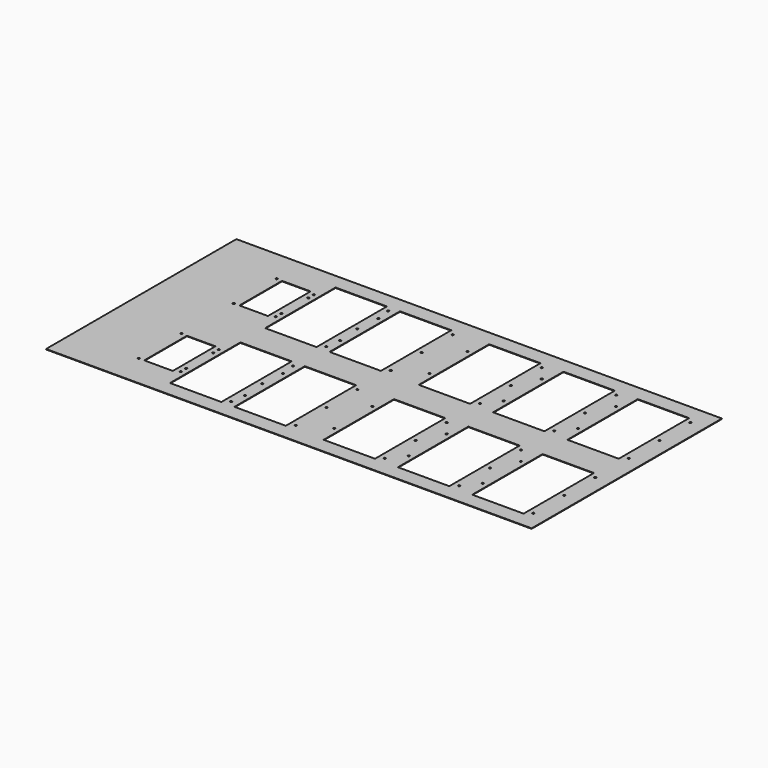
from build123d import *

# Parameters (mm, degrees)
SKETCH_W        = 980
SKETCH_H        = 480
PAD_DEPTH       = 1
SKETCH077_R     = 1.9
SKETCH077_W     = 103.6
SKETCH077_H     = 177.6
POCKET018_DEPTH = 1
SKETCH095_R     = 1.9
SKETCH095_W     = 103.6
SKETCH095_H     = 177.6
POCKET023_DEPTH = 1
SKETCH113_R     = 1.9
SKETCH113_W     = 103.6
SKETCH113_H     = 177.6
POCKET028_DEPTH = 1
SKETCH131_R     = 1.9
SKETCH131_W     = 103.6
SKETCH131_H     = 177.6
POCKET033_DEPTH = 1
SKETCH149_R     = 1.9
SKETCH149_W     = 103.6
SKETCH149_H     = 177.6
POCKET038_DEPTH = 1
SKETCH198_R     = 1.9
SKETCH198_W     = 57.6
SKETCH198_H     = 107.6
POCKET056_DEPTH = 1
SKETCH216_R     = 1.9
SKETCH216_W     = 103.6
SKETCH216_H     = 177.6
POCKET061_DEPTH = 1
SKETCH234_R     = 1.9
SKETCH234_W     = 103.6
SKETCH234_H     = 177.6
POCKET066_DEPTH = 1
SKETCH252_R     = 1.9
SKETCH252_W     = 103.6
SKETCH252_H     = 177.6
POCKET071_DEPTH = 1
SKETCH270_R     = 1.9
SKETCH270_W     = 103.6
SKETCH270_H     = 177.6
POCKET076_DEPTH = 1
SKETCH288_R     = 1.9
SKETCH288_W     = 103.6
SKETCH288_H     = 177.6
POCKET081_DEPTH = 1
SKETCH303_R     = 1.9
SKETCH303_W     = 57.6
SKETCH303_H     = 107.6
POCKET085_DEPTH = 1


with BuildPart() as part:
    # Sketch → Pad (new body)
    with BuildSketch(Plane.XY):
        Rectangle(SKETCH_W, SKETCH_H)
    extrude(amount=PAD_DEPTH)

    # Sketch077 (on Face5 of Pad) → Pocket018 (cut)
    with BuildSketch(Plane(origin=(0, 0, 0), x_dir=(1, 0, 0), z_dir=(0, 0, -1))):
        with Locations((459.999969, -41.999985)):
            Circle(SKETCH077_R)
        with Locations((459.999969, -119.999985)):
            Circle(SKETCH077_R)
        with Locations((459.999969, -197.999985)):
            Circle(SKETCH077_R)
        with Locations((333.999969, -167.999985)):
            Circle(SKETCH077_R)
        with Locations((333.999969, -71.999985)):
            Circle(SKETCH077_R)
        with Locations((396.999969, -119.999985)):
            Rectangle(SKETCH077_W, SKETCH077_H)
    extrude(amount=-POCKET018_DEPTH, mode=Mode.SUBTRACT)

    # Sketch095 (on Face4 of Pocket018) → Pocket023 (cut)
    with BuildSketch(Plane(origin=(0, 0, 0), x_dir=(1, 0, 0), z_dir=(0, 0, -1))):
        with Locations((309.999924, -42.000008)):
            Circle(SKETCH095_R)
        with Locations((309.999924, -120.000008)):
            Circle(SKETCH095_R)
        with Locations((183.999924, -72.000008)):
            Circle(SKETCH095_R)
        with Locations((309.999924, -198.000008)):
            Circle(SKETCH095_R)
        with Locations((183.999924, -168.000008)):
            Circle(SKETCH095_R)
        with Locations((246.999924, -120.000008)):
            Rectangle(SKETCH095_W, SKETCH095_H)
    extrude(amount=-POCKET023_DEPTH, mode=Mode.SUBTRACT)

    # Sketch113 (on Face4 of Pocket023) → Pocket028 (cut)
    with BuildSketch(Plane(origin=(0, 0, 0), x_dir=(1, 0, 0), z_dir=(0, 0, -1))):
        with Locations((159.999886, -120.000023)):
            Circle(SKETCH113_R)
        with Locations((159.999886, -42.000023)):
            Circle(SKETCH113_R)
        with Locations((159.999886, -198.000023)):
            Circle(SKETCH113_R)
        with Locations((33.999886, -168.000023)):
            Circle(SKETCH113_R)
        with Locations((33.999886, -72.000023)):
            Circle(SKETCH113_R)
        with Locations((96.999886, -120.000023)):
            Rectangle(SKETCH113_W, SKETCH113_H)
    extrude(amount=-POCKET028_DEPTH, mode=Mode.SUBTRACT)

    # Sketch131 (on Face4 of Pocket028) → Pocket033 (cut)
    with BuildSketch(Plane(origin=(0, 0, 0), x_dir=(1, 0, 0), z_dir=(0, 0, -1))):
        with Locations((-20.000153, -42.000076)):
            Circle(SKETCH131_R)
        with Locations((-20.000153, -120.000076)):
            Circle(SKETCH131_R)
        with Locations((-20.000153, -198.000076)):
            Circle(SKETCH131_R)
        with Locations((-146.000153, -168.000076)):
            Circle(SKETCH131_R)
        with Locations((-146.000153, -72.000076)):
            Circle(SKETCH131_R)
        with Locations((-83.000153, -120.000076)):
            Rectangle(SKETCH131_W, SKETCH131_H)
    extrude(amount=-POCKET033_DEPTH, mode=Mode.SUBTRACT)

    # Sketch149 (on Face4 of Pocket033) → Pocket038 (cut)
    with BuildSketch(Plane(origin=(0, 0, 0), x_dir=(1, 0, 0), z_dir=(0, 0, -1))):
        with Locations((-150.000107, -42.000069)):
            Circle(SKETCH149_R)
        with Locations((-150.000107, -120.000069)):
            Circle(SKETCH149_R)
        with Locations((-150.000107, -198.000069)):
            Circle(SKETCH149_R)
        with Locations((-276.000107, -168.000069)):
            Circle(SKETCH149_R)
        with Locations((-276.000107, -72.000069)):
            Circle(SKETCH149_R)
        with Locations((-213.000107, -120.000069)):
            Rectangle(SKETCH149_W, SKETCH149_H)
    extrude(amount=-POCKET038_DEPTH, mode=Mode.SUBTRACT)

    # Sketch198 (on Face5 of Pad) → Pocket056 (cut)
    with BuildSketch(Plane(origin=(0, 0, 0), x_dir=(1, 0, 0), z_dir=(0, 0, -1))):
        with Locations((-276.000183, -86.000107)):
            Circle(SKETCH198_R)
        with Locations((-276.000183, -154.000107)):
            Circle(SKETCH198_R)
        with Locations((-356.000183, -66.000107)):
            Circle(SKETCH198_R)
        with Locations((-356.000183, -174.000107)):
            Circle(SKETCH198_R)
        with Locations((-316.000183, -120.000107)):
            Rectangle(SKETCH198_W, SKETCH198_H)
    extrude(amount=-POCKET056_DEPTH, mode=Mode.SUBTRACT)

    # Sketch216 (on Face5 of Pad) → Pocket061 (cut)
    with BuildSketch(Plane(origin=(0, 0, 0), x_dir=(1, 0, 0), z_dir=(0, 0, -1))):
        with Locations((459.999878, 42.000061)):
            Circle(SKETCH216_R)
        with Locations((333.999878, 72.000061)):
            Circle(SKETCH216_R)
        with Locations((333.999878, 168.000061)):
            Circle(SKETCH216_R)
        with Locations((459.999878, 198.000061)):
            Circle(SKETCH216_R)
        with Locations((459.999878, 120.000061)):
            Circle(SKETCH216_R)
        with Locations((396.999878, 120.000061)):
            Rectangle(SKETCH216_W, SKETCH216_H)
    extrude(amount=-POCKET061_DEPTH, mode=Mode.SUBTRACT)

    # Sketch234 (on Face4 of Pocket061) → Pocket066 (cut)
    with BuildSketch(Plane(origin=(0, 0, 0), x_dir=(1, 0, 0), z_dir=(0, 0, -1))):
        with Locations((309.999893, 198.000046)):
            Circle(SKETCH234_R)
        with Locations((183.999893, 168.000046)):
            Circle(SKETCH234_R)
        with Locations((309.999893, 120.000046)):
            Circle(SKETCH234_R)
        with Locations((309.999893, 42.000046)):
            Circle(SKETCH234_R)
        with Locations((183.999893, 72.000046)):
            Circle(SKETCH234_R)
        with Locations((246.999893, 120.000046)):
            Rectangle(SKETCH234_W, SKETCH234_H)
    extrude(amount=-POCKET066_DEPTH, mode=Mode.SUBTRACT)

    # Sketch252 (on Face4 of Pocket066) → Pocket071 (cut)
    with BuildSketch(Plane(origin=(0, 0, 0), x_dir=(1, 0, 0), z_dir=(0, 0, -1))):
        with Locations((159.999924, 198.000069)):
            Circle(SKETCH252_R)
        with Locations((159.999924, 120.000069)):
            Circle(SKETCH252_R)
        with Locations((159.999924, 42.000069)):
            Circle(SKETCH252_R)
        with Locations((33.999924, 72.000069)):
            Circle(SKETCH252_R)
        with Locations((33.999924, 168.000069)):
            Circle(SKETCH252_R)
        with Locations((96.999924, 120.000069)):
            Rectangle(SKETCH252_W, SKETCH252_H)
    extrude(amount=-POCKET071_DEPTH, mode=Mode.SUBTRACT)

    # Sketch270 (on Face4 of Pocket071) → Pocket076 (cut)
    with BuildSketch(Plane(origin=(0, 0, 0), x_dir=(1, 0, 0), z_dir=(0, 0, -1))):
        with Locations((-146.000107, 168)):
            Circle(SKETCH270_R)
        with Locations((-146.000107, 72)):
            Circle(SKETCH270_R)
        with Locations((-20.000107, 42)):
            Circle(SKETCH270_R)
        with Locations((-20.000107, 120)):
            Circle(SKETCH270_R)
        with Locations((-20.000107, 198)):
            Circle(SKETCH270_R)
        with Locations((-83.000107, 120)):
            Rectangle(SKETCH270_W, SKETCH270_H)
    extrude(amount=-POCKET076_DEPTH, mode=Mode.SUBTRACT)

    # Sketch288 (on Face4 of Pocket076) → Pocket081 (cut)
    with BuildSketch(Plane(origin=(0, 0, 0), x_dir=(1, 0, 0), z_dir=(0, 0, -1))):
        with Locations((-150.000107, 197.999969)):
            Circle(SKETCH288_R)
        with Locations((-150.000107, 119.999969)):
            Circle(SKETCH288_R)
        with Locations((-150.000107, 41.999969)):
            Circle(SKETCH288_R)
        with Locations((-276.000107, 71.999969)):
            Circle(SKETCH288_R)
        with Locations((-276.000107, 167.999969)):
            Circle(SKETCH288_R)
        with Locations((-213.000107, 119.999969)):
            Rectangle(SKETCH288_W, SKETCH288_H)
    extrude(amount=-POCKET081_DEPTH, mode=Mode.SUBTRACT)

    # Sketch303 (on Face4 of Pocket081) → Pocket085 (cut)
    with BuildSketch(Plane(origin=(0, 0, 0), x_dir=(1, 0, 0), z_dir=(0, 0, -1))):
        with Locations((-276.000275, 85.999939)):
            Circle(SKETCH303_R)
        with Locations((-356.000275, 65.999939)):
            Circle(SKETCH303_R)
        with Locations((-276.000275, 153.999939)):
            Circle(SKETCH303_R)
        with Locations((-356.000275, 173.999939)):
            Circle(SKETCH303_R)
        with Locations((-316.000275, 119.999939)):
            Rectangle(SKETCH303_W, SKETCH303_H)
    extrude(amount=-POCKET085_DEPTH, mode=Mode.SUBTRACT)


solid = part.part
